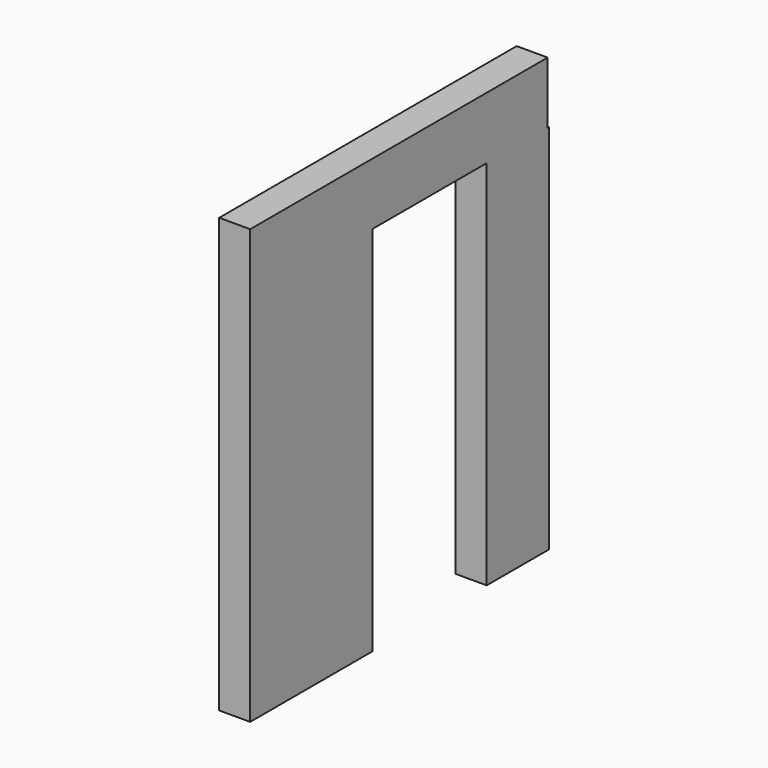
from build123d import *

# Parameters (mm, degrees)
F0_W     = 0.230264
F0_H     = 60
F0_W_2   = 24.769736
F1_DEPTH = 5
F2_W     = 23
F2_H     = 60
F3_DEPTH = 25


with BuildPart() as f1:
    # F0 (on Right) → F1 (new body)
    with BuildSketch(Plane.YZ):
        Polygon((-4.391449, 41.003291), (-64.391449, 41.003291), (-64.391449, -28.996709), (-29.161185, -28.996709), (-29.161185, 31.003291), (-4.391449, 31.003291), align=None)
        with Locations((-4.276317, 1.003291)):
            Rectangle(F0_W, F0_H)
        with Locations((-16.776317, 1.003291)):
            Rectangle(F0_W_2, F0_H)
    extrude(amount=F1_DEPTH)

    # F2 (on face) → F3 (cut)
    with BuildSketch(Plane.YZ.offset(5)):
        with Locations((-28.177875, 1.003291)):
            Rectangle(F2_W, F2_H)
    extrude(amount=-F3_DEPTH, mode=Mode.SUBTRACT)


solid = f1.part
